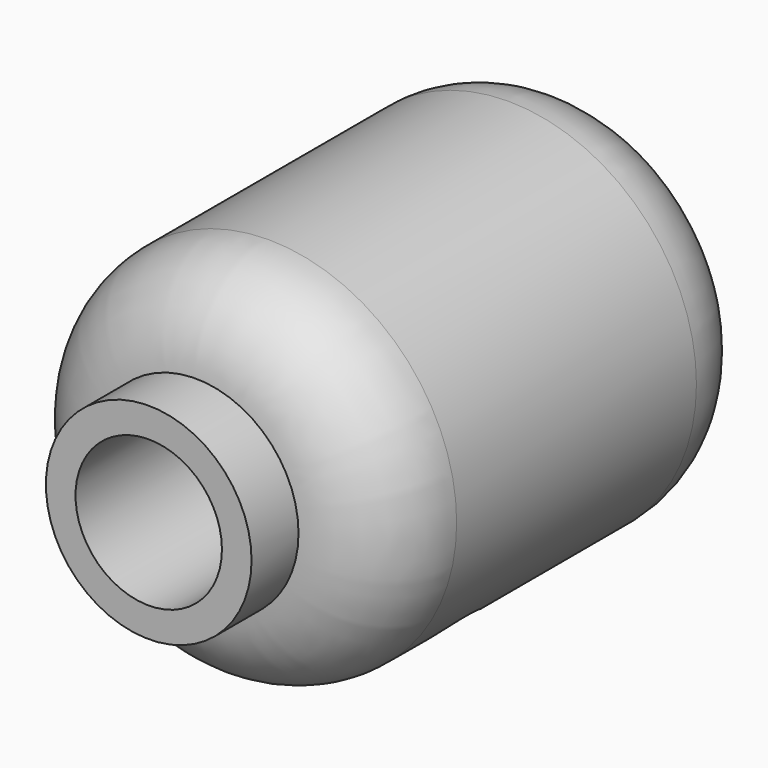
from build123d import *

# Parameters (mm, degrees)
F0_R      = 10.289099
F2_DEPTH  = 26.4
F4_R      = 5
F5_R      = 5.460042
F3_R      = 5.477672
F6_DEPTH  = 10.3
F7_R      = 2.997671
F8_DEPTH  = 15.6
F9_R      = 3.220939
F10_DEPTH = 25
F11_R     = 5.627011
F12_DEPTH = 29.6
F13_R     = 5.708665
F14_DEPTH = 6.4
F15_R     = 4.005465
F16_DEPTH = 46.1
F18_DEPTH = 44.9


with BuildPart() as f2:
    # F0 (on Front) → F2 (new body)
    with BuildSketch(Plane.XZ):
        Circle(F0_R)
    extrude(amount=F2_DEPTH)

    # F4
    f4_edges = [f2.edges().sort_by_distance(p)[0] for p in [
        (-10.289099, -26.4, 0),
        (-10.289099, 0, 0),
    ]]
    fillet(f4_edges, radius=F4_R)

    # F5 (on Front) + F3 (on Front) → F6 (cut)
    with BuildSketch(Plane.XZ):
        Circle(F5_R)
    with BuildSketch(Plane.XZ):
        Circle(F3_R)
    extrude(amount=F6_DEPTH, mode=Mode.SUBTRACT)

    # F7 (on Top) → F8 (cut)
    with BuildSketch(Plane.XY):
        with Locations((4.320451, -17.085413)):
            Circle(F7_R)
    extrude(amount=-F8_DEPTH, mode=Mode.SUBTRACT)

    # F9 (on Top) → F10 (cut)
    with BuildSketch(Plane.XY):
        with Locations((-4.516833, -17.674565)):
            Circle(F9_R)
    extrude(amount=-F10_DEPTH, mode=Mode.SUBTRACT)

    # F11 (on Front) → F12 (join)
    with BuildSketch(Plane.XZ):
        Circle(F11_R)
    extrude(amount=F12_DEPTH)

    # F13 (on Front) → F14 (cut)
    with BuildSketch(Plane.XZ):
        Circle(F13_R)
    extrude(amount=F14_DEPTH, mode=Mode.SUBTRACT)

    # F15 (on Front) → F16 (cut, symmetric)
    with BuildSketch(Plane.XZ):
        Circle(F15_R)
    extrude(amount=F16_DEPTH, both=True, mode=Mode.SUBTRACT)

    # F17 (on Top) → F18 (cut)
    with BuildSketch(Plane.XY):
        with BuildLine():
            ThreePointArc((-3.731297, -9.23005), (-0.012911, -8.641232), (3.731297, -9.033666))
            ThreePointArc((3.731297, -9.033666), (-0.061388, -6.799126), (-3.731297, -9.23005))
        make_face()
    extrude(amount=-F18_DEPTH, mode=Mode.SUBTRACT)


solid = f2.part
